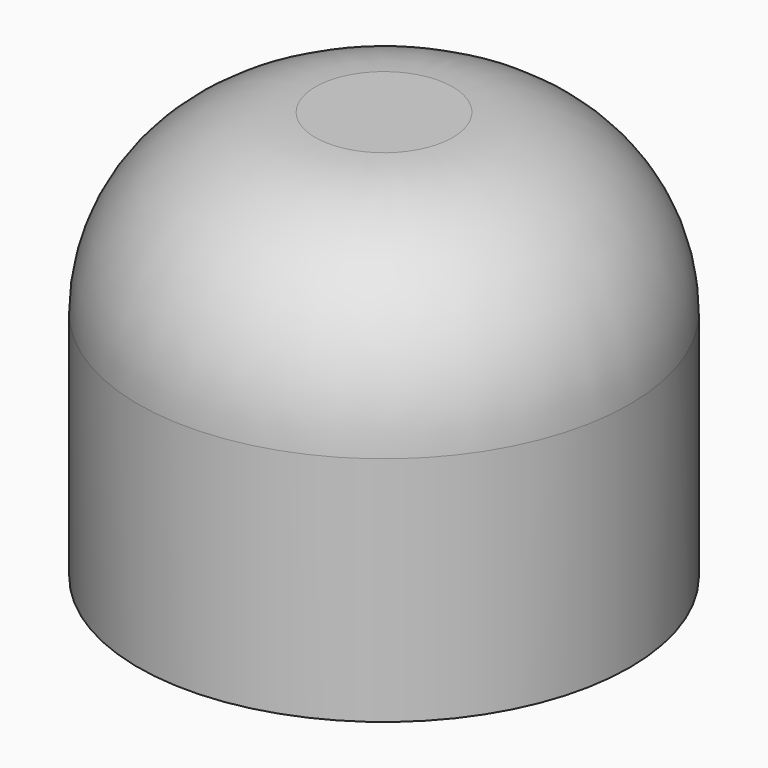
from build123d import *

# Parameters (mm, degrees)
F0_R     = 46.8986478897
F1_DEPTH = 25
F2_DEPTH = 53
F3_R     = 33.7989898732


with BuildPart() as f1:
    # F0 (on Top) → F1 (new body)
    with BuildSketch(Plane.XY):
        with Locations((0, 9.0647488832)):
            Circle(F0_R)
    extrude(amount=F1_DEPTH)

    # F2 (add): a face of the model
    f2_faces = [f1.faces().sort_by_distance(p)[0] for p in [
        (0, 9.0647488832, 25),
    ]]
    extrude(f2_faces, amount=F2_DEPTH)

    # F3
    f3_edges = [f1.edges().sort_by_distance(p)[0] for p in [
        (-46.898648, 9.064749, 78),
    ]]
    fillet(f3_edges, radius=F3_R)


solid = f1.part
